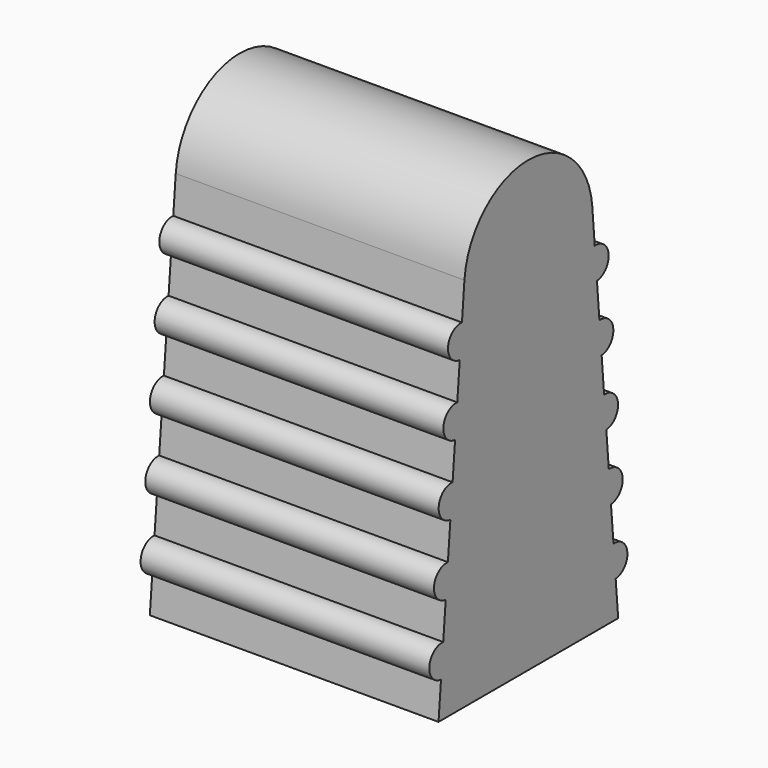
from build123d import *

# Parameters (mm, degrees)
PAD_DEPTH    = 9
SKETCH001_R  = 2.5
POCKET_DEPTH = 10


with BuildPart() as part:
    # Sketch → Pad (new body)
    with BuildSketch(Plane.YZ):
        with BuildLine():
            Line((-3.5, 0), (-3.403323, 1.122173))
            ThreePointArc((-3.31749, 2.118482), (-3.858561, 1.663244), (-3.403323, 1.122173))
            Line((-3.31749, 2.118482), (-3.220813, 3.240655))
            ThreePointArc((-3.13498, 4.236964), (-3.676052, 3.781726), (-3.220813, 3.240655))
            Line((-3.13498, 4.236964), (-3.038304, 5.359137))
            ThreePointArc((-2.95247, 6.355446), (-3.493542, 5.900208), (-3.038304, 5.359137))
            Line((-2.95247, 6.355446), (-2.855794, 7.477619))
            ThreePointArc((-2.76996, 8.473929), (-3.311032, 8.01869), (-2.855794, 7.477619))
            Line((-2.76996, 8.473929), (-2.673284, 9.596101))
            ThreePointArc((-2.58745, 10.592411), (-3.128522, 10.137173), (-2.673284, 9.596101))
            Line((-2.58745, 10.592411), (-2.490774, 11.714583))
            ThreePointArc((2.490774, 11.714583), (0, 14), (-2.490774, 11.714583))
            Line((2.490774, 11.714583), (2.58745, 10.592411))
            ThreePointArc((2.673284, 9.596101), (3.128522, 10.137173), (2.58745, 10.592411))
            Line((2.673284, 9.596101), (2.76996, 8.473929))
            ThreePointArc((2.855794, 7.477619), (3.311032, 8.01869), (2.76996, 8.473929))
            Line((2.855794, 7.477619), (2.95247, 6.355446))
            ThreePointArc((3.038304, 5.359137), (3.493542, 5.900208), (2.95247, 6.355446))
            Line((3.038304, 5.359137), (3.13498, 4.236964))
            ThreePointArc((3.220813, 3.240655), (3.676052, 3.781726), (3.13498, 4.236964))
            Line((3.220813, 3.240655), (3.31749, 2.118482))
            ThreePointArc((3.403323, 1.122173), (3.858561, 1.663244), (3.31749, 2.118482))
            Line((3.403323, 1.122173), (3.5, 0))
            Line((-3.5, 0), (3.5, 0))
        make_face()
    extrude(amount=PAD_DEPTH)

    # Sketch001 → Pocket (cut)
    with BuildSketch(Plane.YX):
        with Locations((0, 4.5)):
            Circle(SKETCH001_R)
    extrude(amount=-POCKET_DEPTH, mode=Mode.SUBTRACT)


solid = part.part
